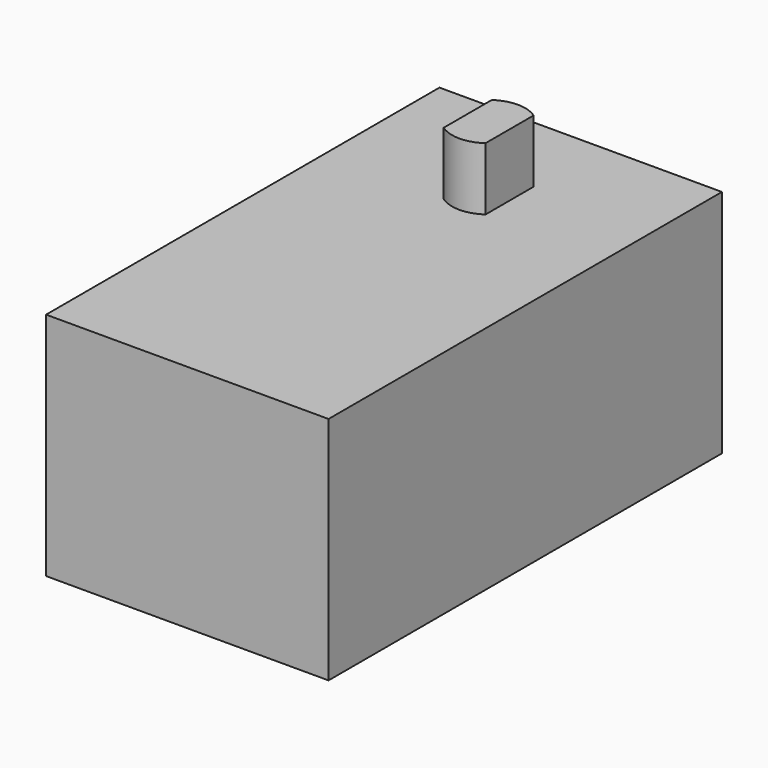
from build123d import *

# Parameters (mm, degrees)
F1_DEPTH = 6
F0_W     = 27
F0_H     = 47
F0_R     = 9.5
F2_DEPTH = 22
F3_DEPTH = 22


with BuildPart() as f1:
    # F0 (on Top) → F1 (new body)
    with BuildSketch(Plane.XY):
        with BuildLine():
            Line((2, 9.6277186767), (2, 15.3722813233))
            ThreePointArc((2, 15.3722813233), (0, 16), (-2, 15.3722813233))
            Line((-2, 15.3722813233), (-2, 9.6277186767))
            ThreePointArc((-2, 9.6277186767), (0, 9), (2, 9.6277186767))
        make_face()
    extrude(amount=F1_DEPTH)

    # F0 (on Top) → F2 (join)
    with BuildSketch(Plane.XY):
        Rectangle(F0_W, F0_H)
        with Locations((0, 12.5)):
            Circle(F0_R, mode=Mode.SUBTRACT)
        with Locations((0, 12.5)):
            Circle(F0_R)
        with BuildLine():
            ThreePointArc((2, 15.3722813233), (3.1024184115, 14.1201851746), (3.5, 12.5))
            ThreePointArc((3.5, 12.5), (3.1024184115, 10.8798148254), (2, 9.6277186767))
            ThreePointArc((2, 9.6277186767), (0, 9), (-2, 9.6277186767))
            ThreePointArc((-2, 9.6277186767), (-3.5, 12.5), (-2, 15.3722813233))
            ThreePointArc((-2, 15.3722813233), (0, 16), (2, 15.3722813233))
        make_face(mode=Mode.SUBTRACT)
        with BuildLine():
            Line((-2, 9.6277186767), (-2, 15.3722813233))
            ThreePointArc((-2, 15.3722813233), (-3.5, 12.5), (-2, 9.6277186767))
        make_face()
        with BuildLine():
            ThreePointArc((2, 9.6277186767), (3.1024184115, 10.8798148254), (3.5, 12.5))
            ThreePointArc((3.5, 12.5), (3.1024184115, 14.1201851746), (2, 15.3722813233))
            Line((2, 15.3722813233), (2, 9.6277186767))
        make_face()
    extrude(amount=-F2_DEPTH)

    # F0 (on Top) → F3 (join)
    with BuildSketch(Plane.XY):
        with BuildLine():
            Line((2, 9.6277186767), (2, 15.3722813233))
            ThreePointArc((2, 15.3722813233), (0, 16), (-2, 15.3722813233))
            Line((-2, 15.3722813233), (-2, 9.6277186767))
            ThreePointArc((-2, 9.6277186767), (0, 9), (2, 9.6277186767))
        make_face()
    extrude(amount=-F3_DEPTH)


solid = f1.part
